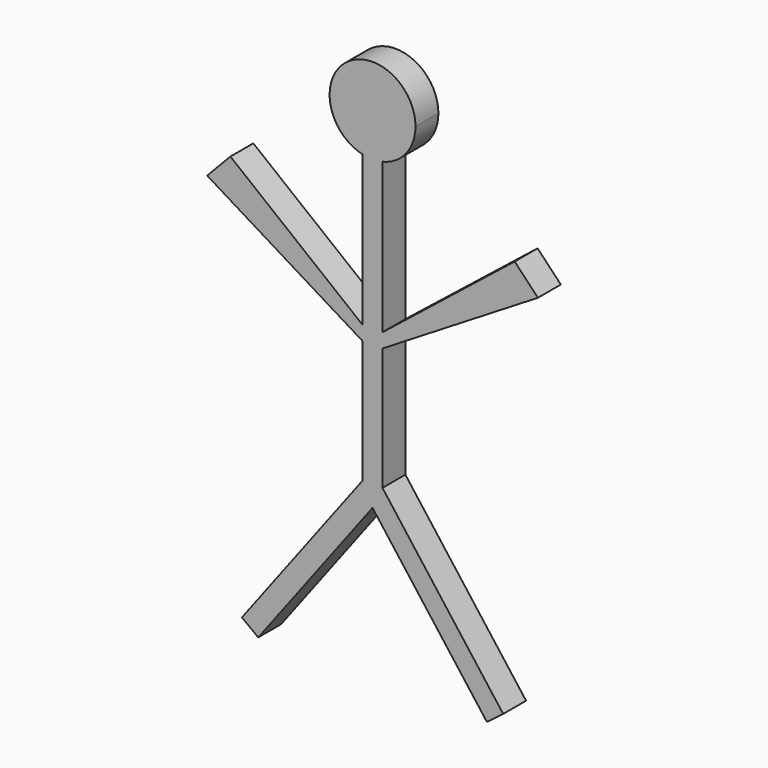
from build123d import *

# Parameters (mm, degrees)
F1_DEPTH = 50


with BuildPart() as f1:
    # F0 (on Front) → F1 (new body, symmetric)
    with BuildSketch(Plane.XZ):
        with BuildLine():
            ThreePointArc((34.65832, 938.949756), (117.683363, 991.882101), (150, 1084.890842))
            ThreePointArc((150, 1084.890842), (-93.008741, 1202.574206), (-34.65832, 938.949756))
            ThreePointArc((-34.65832, 938.949756), (0, 934.890842), (34.65832, 938.949756))
        make_face()
        with BuildLine():
            ThreePointArc((34.65832, 938.949756), (0, 934.890842), (-34.65832, 938.949756))
            Line((-34.65832, 938.949756), (-34.65832, 414.451611))
            Line((-34.65832, 414.451611), (-496.485632, 782.202331))
            Line((-496.485632, 782.202331), (-577.730775, 697.129786))
            Line((-577.730775, 697.129786), (-34.65832, 364.602458))
            Line((-34.65832, 364.602458), (-34.65832, -64.047714))
            Line((-34.65832, -64.047714), (-456.351271, -622.056438))
            Line((-456.351271, -622.056438), (-399.381399, -665.109158))
            Line((-399.381399, -665.109158), (-34.65832, -182.486293))
            Line((-34.65832, -182.486293), (0, -136.624381))
            Line((0, -136.624381), (34.65832, -182.486293))
            Line((34.65832, -182.486293), (399.381399, -665.109158))
            Line((399.381399, -665.109158), (456.351271, -622.056438))
            Line((456.351271, -622.056438), (34.65832, -64.047714))
            Line((34.65832, -64.047714), (34.65832, 364.602458))
            Line((34.65832, 364.602458), (577.730775, 697.129786))
            Line((577.730775, 697.129786), (496.485632, 782.202331))
            Line((496.485632, 782.202331), (34.65832, 414.451611))
            Line((34.65832, 414.451611), (34.65832, 938.949756))
        make_face()
    extrude(amount=F1_DEPTH, both=True)


solid = f1.part
